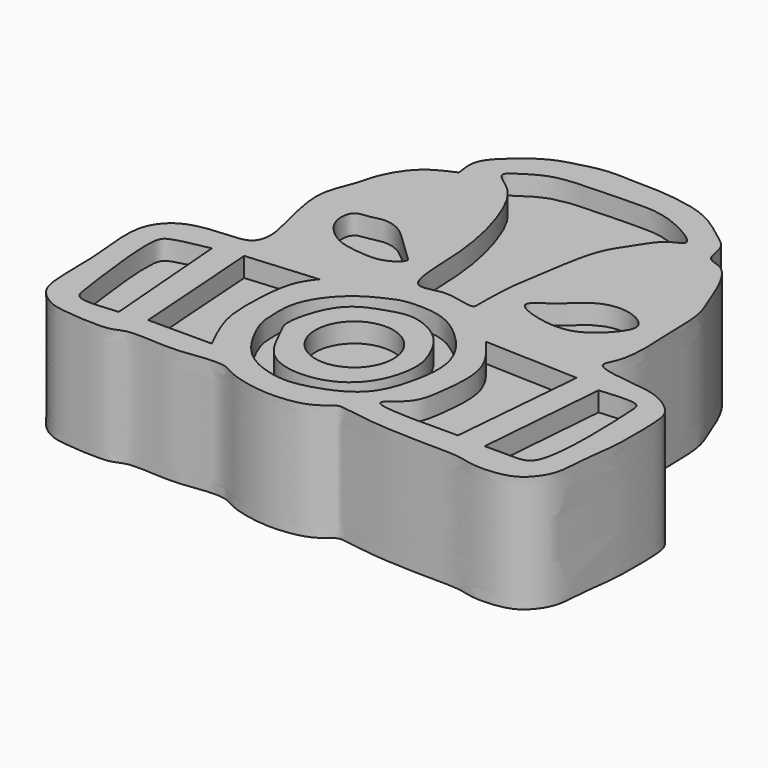
from build123d import *

# Parameters (mm, degrees)
F0_R     = 4.0049183009
F1_DEPTH = 10
F2_DEPTH = 12


with BuildPart() as f1:
    # F0 (on Top) → F1 (new body)
    with BuildSketch(Plane.XY):
        with Locations((28.8894893101, 18.9235352306)):
            Circle(F0_R)
    extrude(amount=F1_DEPTH)


with BuildPart() as f1b:
    # F0 (on Top) → F1, piece 2 (new body)
    with BuildSketch(Plane.XY):
        with BuildLine():
            add(Edge.make_bspline(
                [(20.8026859909, 16.9882196933), (20.6035718226, 17.6207572105), (20.5794979241, 18.4840377691), (20.3575789781, 21.8709034747), (23.144450364, 25.4916466908), (26.0156291835, 26.8448795352), (27.3980399055, 27.4517257238), (30.9713423124, 27.4624267076), (33.5654488721, 25.9090342878), (36.0937248749, 23.288237427), (37.0731807168, 20.2982965996), (36.5681032879, 16.8125660225), (35.1878245541, 12.4423867158), (30.0344510982, 10.6358131148), (27.4616135185, 10.5157372975), (23.0806656691, 11.8518584175), (21.1685944091, 15.8258172169), (20.8026859909, 16.9882196933)],
                knots=[0, 0, 0, 0, 0.0455058121, 0.1095799179, 0.1869409595, 0.250369325, 0.2949950733, 0.3614110684, 0.4253196437, 0.4937373292, 0.5568476491, 0.6245977666, 0.7005841649, 0.7819469744, 0.8408300813, 0.9163748122, 1, 1, 1, 1], degree=3))
        make_face()
        with BuildLine():
            add(Edge.make_bspline(
                [(23.2952721417, 22.2107823938), (23.7769020396, 23.1724826284), (24.9174060231, 24.363977316), (27.3520128584, 25.2047187757), (29.7293339921, 25.903054945), (33.1877719613, 24.2454809105), (34.6327309116, 21.5254340774), (35.4120031108, 19.2629238939), (34.7184452744, 15.6187500999), (32.3911856956, 12.8700520948), (28.6403074104, 11.8967123414), (24.5641158116, 12.9769320862), (23.0225031456, 16.9481831505), (22.001138069, 18.2925802515), (22.7143341666, 21.0507875736), (23.2952721417, 22.2107823938)],
                knots=[0, 0, 0, 0, 0.0720681105, 0.1407906987, 0.2088571516, 0.2917126596, 0.3677518005, 0.4348404499, 0.5172072425, 0.5988121841, 0.683149842, 0.769957715, 0.856584505, 0.9130720449, 1, 1, 1, 1], degree=3))
        make_face(mode=Mode.SUBTRACT)
    extrude(amount=F1_DEPTH)


with BuildPart() as f1c:
    # F0 (on Top) → F1, piece 3 (new body)
    with BuildSketch(Plane.XY):
        with BuildLine():
            add(Edge.make_bspline(
                [(45.2537797391, 11.7656551301), (45.6494291623, 16.3551811129), (46.0450785855, 20.9447070956), (46.4407280087, 25.5342330784)],
                knots=[0, 0, 0, 0, 13.8196448909, 13.8196448909, 13.8196448909, 13.8196448909], degree=3))
            add(Edge.make_bspline(
                [(46.4407280087, 25.5342330784), (43.2359725237, 25.652927657), (40.0312170386, 25.7716222356), (36.8264615536, 25.8903168142)],
                knots=[0, 0, 0, 0, 9.6208583348, 9.6208583348, 9.6208583348, 9.6208583348], degree=3))
            add(Edge.make_bspline(
                [(36.8264615536, 25.8903168142), (37.1604552953, 25.494936706), (37.957298328, 24.5516379396), (39.9568912281, 21.786537185), (39.4803852053, 16.9849641596), (38.9753058859, 13.8813847741), (34.8209130815, 11.6606950068), (41.0943311488, 11.7238088906), (45.2537797391, 11.7656551301)],
                knots=[0, 0, 0, 0, 0.1132509584, 0.2701943956, 0.4601858998, 0.6177575485, 0.7465627495, 1, 1, 1, 1], degree=3))
        make_face()
    extrude(amount=F1_DEPTH)


with BuildPart() as f1d:
    # F0 (on Top) → F1, piece 4 (new body)
    with BuildSketch(Plane.XY):
        with BuildLine():
            add(Edge.make_bspline(
                [(48.1024496257, 11.6469617933), (49.2447932451, 11.6260351986), (51.2699284324, 11.5889367438), (53.9784444263, 11.9160335461), (53.4675595097, 23.4833797746), (53.3265951762, 25.3129529029), (50.7516614767, 25.0823466557), (49.1707026958, 24.9407589436)],
                knots=[0, 0, 0, 0, 0.1854358793, 0.3287388469, 0.6711996101, 0.7981230104, 1, 1, 1, 1], degree=3))
            add(Edge.make_bspline(
                [(49.1707026958, 24.9407589436), (48.8146183391, 20.5094932268), (48.4585339824, 16.0782275101), (48.1024496257, 11.6469617933)],
                knots=[0, 0, 0, 0, 13.3366490279, 13.3366490279, 13.3366490279, 13.3366490279], degree=3))
        make_face()
    extrude(amount=F1_DEPTH)


with BuildPart() as f1e:
    # F0 (on Top) → F1, piece 5 (new body)
    with BuildSketch(Plane.XY):
        with BuildLine():
            add(Edge.make_bspline(
                [(9.5266960561, 24.8220656067), (9.8827794815, 20.3907992691), (10.2388629069, 15.9595329314), (10.5949463323, 11.5282665938)],
                knots=[0, 0, 0, 0, 13.3366506608, 13.3366506608, 13.3366506608, 13.3366506608], degree=3))
            add(Edge.make_bspline(
                [(10.5949463323, 11.5282665938), (8.9929018328, 11.3615784134), (6.2699289583, 11.0782608189), (5.9735233223, 13.3120594037), (4.5683987651, 23.0915344288), (5.9027622941, 24.1298075136), (8.1373489763, 24.5566670583), (9.5266960561, 24.8220656067)],
                knots=[0, 0, 0, 0, 0.2073275755, 0.352391812, 0.6778165336, 0.7996834664, 1, 1, 1, 1], degree=3))
        make_face()
    extrude(amount=F1_DEPTH)


with BuildPart() as f1f:
    # F0 (on Top) → F1, piece 6 (new body)
    with BuildSketch(Plane.XY):
        with BuildLine():
            add(Edge.make_bspline(
                [(19.615739584, 26.0090120137), (19.1743553077, 25.4374342486), (18.1369795872, 24.0940676458), (17.8238545293, 19.7871219215), (17.8645285467, 15.9348256176), (19.1762101672, 13.2631293848), (19.8531281203, 11.8843503296)],
                knots=[0, 0, 0, 0, 0.1981795194, 0.4657769493, 0.7243041541, 1, 1, 1, 1], degree=3))
            add(Edge.make_bspline(
                [(19.615739584, 26.0090120137), (17.202282014, 25.8111873021), (14.788824444, 25.6133625905), (12.375366874, 25.4155378789)],
                knots=[0, 0, 0, 0, 7.2646547425, 7.2646547425, 7.2646547425, 7.2646547425], degree=3))
            add(Edge.make_bspline(
                [(12.375366874, 25.4155378789), (12.6918858538, 20.9051420291), (13.0084048336, 16.3947461794), (13.3249238133, 11.8843503296)],
                knots=[0, 0, 0, 0, 13.5644644153, 13.5644644153, 13.5644644153, 13.5644644153], degree=3))
            add(Edge.make_bspline(
                [(13.3249238133, 11.8843503296), (15.5009919157, 11.8843503296), (17.677060018, 11.8843503296), (19.8531281203, 11.8843503296)],
                knots=[0, 0, 0, 0, 6.528204307, 6.528204307, 6.528204307, 6.528204307], degree=3))
        make_face()
    extrude(amount=F1_DEPTH)


with BuildPart() as f1g:
    # F0 (on Top) → F1, piece 7 (new body)
    with BuildSketch(Plane.XY):
        with BuildLine():
            add(Edge.make_bspline(
                [(16.0549003631, 37.0476134121), (16.4884641357, 37.1155053542), (17.2301345059, 37.4378671255), (19.2345113117, 36.9786346853), (21.0491013175, 34.9278189442), (22.7711921329, 33.4522305308), (23.31106835, 32.8422584646), (21.5575576201, 31.4626686908), (19.0158191509, 31.6850866211), (16.8498697482, 31.9930949296), (14.9963802329, 33.3893072715), (14.0938310397, 35.0207665675), (14.3529331499, 37.0093700836), (15.5774066167, 36.9728424562), (16.0549003631, 37.0476134121)],
                knots=[0, 0, 0, 0, 0.0681988353, 0.1523427714, 0.257146282, 0.350491444, 0.3956537254, 0.4783649686, 0.5785848973, 0.6702889193, 0.7623948645, 0.8468858322, 0.9248910555, 1, 1, 1, 1], degree=3))
        make_face()
    extrude(amount=F1_DEPTH)


with BuildPart() as f1h:
    # F0 (on Top) → F1, piece 8 (new body)
    with BuildSketch(Plane.XY):
        with BuildLine():
            add(Edge.make_bspline(
                [(26.3813324273, 30.2820187062), (25.4859453022, 30.9513633468), (25.8291215448, 37.1745323154), (23.9579104474, 44.1702097332), (21.8980142694, 47.843267803), (19.0784716418, 49.3283212928), (20.8548950521, 50.4407506209), (22.9171432088, 51.8059489017), (26.6724199197, 52.0343047816), (30.9972551486, 52.1159297862), (34.6906778445, 52.2324643997), (39.7384521014, 49.2918593921), (37.029650121, 48.7303175675), (35.6673806982, 46.2044505465), (34.1253728513, 44.2524132122), (33.3372376374, 40.6175425623), (32.8033652961, 36.8616609028), (32.3581020407, 34.5444001911), (32.3036636797, 30.6371074615), (32.3302387886, 29.8789782433), (30.7152354507, 30.1773001052), (28.7344223005, 30.6996199218), (26.9147953928, 29.8832296607), (26.3813324273, 30.2820187062)],
                knots=[0, 0, 0, 0, 0.0691059691, 0.1462001704, 0.2024486215, 0.2437063164, 0.2754556027, 0.3191934086, 0.3719656354, 0.4286113038, 0.4846353718, 0.5408838019, 0.5738620882, 0.6203035782, 0.6636568488, 0.716252628, 0.7691459538, 0.8136237817, 0.8670325605, 0.8861991209, 0.917569646, 0.9588273338, 1, 1, 1, 1], degree=3))
        make_face()
    extrude(amount=F1_DEPTH)


with BuildPart() as f1i:
    # F0 (on Top) → F1, piece 9 (new body)
    with BuildSketch(Plane.XY):
        with BuildLine():
            add(Edge.make_bspline(
                [(35.2834314108, 32.8933000565), (35.1707286419, 33.3685819518), (36.9643517037, 34.3521944467), (38.2964667749, 35.7540983222), (40.1913718158, 37.1883318487), (42.9882169971, 37.2482707702), (45.0468947594, 35.7401102985), (44.3369434678, 34.1906052775), (42.6413767424, 32.312057447), (39.8174204853, 30.9001064425), (35.4498444289, 32.1915152164), (35.2834314108, 32.8933000565)],
                knots=[0, 0, 0, 0, 0.1002400862, 0.204727296, 0.3104226346, 0.4271190388, 0.5297925519, 0.6119560896, 0.7221770092, 0.851988949, 1, 1, 1, 1], degree=3))
        make_face()
    extrude(amount=F1_DEPTH)


with BuildPart() as f2:
    # F0 (on Top) → F2 (new body)
    with BuildSketch(Plane.XY):
        with BuildLine():
            add(Edge.make_bspline(
                [(28.2804463059, 55.0891980529), (29.5327954611, 55.0800693275), (31.9166224468, 55.0626929418), (34.9600043045, 54.5587683253), (37.4440511034, 53.7459931353), (40.2524360298, 51.5276593389), (41.5429719982, 50.5631624266), (41.578509699, 47.9958100822), (43.9974751921, 48.1346184793), (45.9236637264, 43.8697631347), (46.3933992905, 42.4239436048), (47.4071689866, 40.19788218), (47.3148469586, 36.1593638907), (47.6376543944, 32.778885958), (47.2484705343, 29.896118044), (46.2332505524, 28.442193387), (48.5231682717, 27.7587304811), (51.9208314624, 27.5489947915), (54.018539225, 26.8807480294), (55.9756851348, 25.3587585181), (56.2344737501, 23.2530257895), (56.3056740642, 18.161058182), (55.7371852982, 15.3809845813), (55.6773275011, 11.8448336007), (54.689042036, 10.1770951548), (53.1327199724, 8.5791605544), (49.2891957929, 8.3919221315), (47.6915175174, 9.0804897421), (43.8229305636, 8.9831194373), (40.5981963155, 9.1637235535), (38.9629923419, 9.2170315869), (35.4108708261, 9.7233376743), (34.4021572518, 9.9470895033), (32.9617825871, 8.3517637862), (29.7596127006, 7.8663262644), (27.4127178081, 7.9991624371), (24.5222680764, 8.6534383794), (23.1609193025, 9.7462305216), (20.5226980895, 9.5370289), (18.5226483752, 9.217231814), (16.4849833944, 9.2361365542), (13.0549654702, 9.514955598), (11.9418124097, 8.4951182097), (7.156961425, 8.8751725177), (5.4173485535, 9.212221863), (3.3634886372, 10.7442996442), (3.0385509706, 13.4409394615), (3.0777022996, 17.882631279), (2.7329450785, 20.3138514156), (2.5393391558, 23.6658228194), (3.4715679679, 25.6283859359), (5.3075815368, 27.1261216277), (8.8456472722, 27.462012988), (11.4022635052, 27.5400249612), (11.9619954498, 29.52374359), (11.4099576215, 31.7757436991), (10.8094692323, 34.1929844932), (10.0656749581, 37.8998059044), (11.5611141891, 40.8257064206), (11.8505911943, 42.8891675396), (13.7128467198, 46.1724581184), (15.7602601057, 47.0575153117), (16.7670678347, 47.4927388132)],
                knots=[0, 0, 0, 0, 0.0197539844, 0.0376013997, 0.0544158983, 0.0736518995, 0.0866620061, 0.1011843669, 0.1152174299, 0.1366053571, 0.149843024, 0.1652933062, 0.1859935477, 0.2054266536, 0.2229227516, 0.2343836224, 0.2482267086, 0.2677401858, 0.2831904801, 0.2984215473, 0.3132445384, 0.3362317089, 0.3543778229, 0.3732004013, 0.3872334643, 0.4022001531, 0.4216762527, 0.4355490658, 0.4556188097, 0.4740558681, 0.4878085733, 0.5069999524, 0.5170323612, 0.5311364766, 0.5494588197, 0.5657224076, 0.5830155125, 0.5964369607, 0.6126913479, 0.6273663381, 0.6424149709, 0.6608457093, 0.6734608214, 0.6953297655, 0.7097344293, 0.7249655065, 0.7418132, 0.7633926816, 0.7800638408, 0.798494582, 0.8133175714, 0.8286154028, 0.84817664, 0.8638061832, 0.8770438447, 0.892600316, 0.9090803251, 0.9288752553, 0.9470477957, 0.9619789411, 0.9813032892, 1, 1, 1, 1], degree=3))
            add(Edge.make_bspline(
                [(16.7670678347, 47.4927388132), (16.6368678814, 48.313772467), (16.3657426089, 50.0234733336), (18.5644150741, 52.0679657644), (20.9203959077, 53.9547705592), (23.5252213578, 54.6038655503), (25.7718843223, 55.2127332469), (27.433405187, 55.1309109504), (28.2804463059, 55.0891980529)],
                knots=[0, 0, 0, 0, 0.1592266804, 0.3315698355, 0.5124409928, 0.6799545311, 0.8368412472, 1, 1, 1, 1], degree=3))
        make_face()
        with BuildLine():
            add(Edge.make_bspline(
                [(10.5949463323, 11.5282665938), (8.9929018328, 11.3615784134), (6.2699289583, 11.0782608189), (5.9735233223, 13.3120594037), (4.5683987651, 23.0915344288), (5.9027622941, 24.1298075136), (8.1373489763, 24.5566670583), (9.5266960561, 24.8220656067)],
                knots=[0, 0, 0, 0, 0.2073275755, 0.352391812, 0.6778165336, 0.7996834664, 1, 1, 1, 1], degree=3))
            add(Edge.make_bspline(
                [(9.5266960561, 24.8220656067), (9.8827794815, 20.3907992691), (10.2388629069, 15.9595329314), (10.5949463323, 11.5282665938)],
                knots=[0, 0, 0, 0, 13.3366506608, 13.3366506608, 13.3366506608, 13.3366506608], degree=3))
        make_face(mode=Mode.SUBTRACT)
        with BuildLine():
            add(Edge.make_bspline(
                [(19.615739584, 26.0090120137), (17.202282014, 25.8111873021), (14.788824444, 25.6133625905), (12.375366874, 25.4155378789)],
                knots=[0, 0, 0, 0, 7.2646547425, 7.2646547425, 7.2646547425, 7.2646547425], degree=3))
            add(Edge.make_bspline(
                [(19.615739584, 26.0090120137), (19.1743553077, 25.4374342486), (18.1369795872, 24.0940676458), (17.8238545293, 19.7871219215), (17.8645285467, 15.9348256176), (19.1762101672, 13.2631293848), (19.8531281203, 11.8843503296)],
                knots=[0, 0, 0, 0, 0.1981795194, 0.4657769493, 0.7243041541, 1, 1, 1, 1], degree=3))
            add(Edge.make_bspline(
                [(13.3249238133, 11.8843503296), (15.5009919157, 11.8843503296), (17.677060018, 11.8843503296), (19.8531281203, 11.8843503296)],
                knots=[0, 0, 0, 0, 6.528204307, 6.528204307, 6.528204307, 6.528204307], degree=3))
            add(Edge.make_bspline(
                [(12.375366874, 25.4155378789), (12.6918858538, 20.9051420291), (13.0084048336, 16.3947461794), (13.3249238133, 11.8843503296)],
                knots=[0, 0, 0, 0, 13.5644644153, 13.5644644153, 13.5644644153, 13.5644644153], degree=3))
        make_face(mode=Mode.SUBTRACT)
        with BuildLine():
            add(Edge.make_bspline(
                [(20.8026859909, 16.9882196933), (20.6035718226, 17.6207572105), (20.5794979241, 18.4840377691), (20.3575789781, 21.8709034747), (23.144450364, 25.4916466908), (26.0156291835, 26.8448795352), (27.3980399055, 27.4517257238), (30.9713423124, 27.4624267076), (33.5654488721, 25.9090342878), (36.0937248749, 23.288237427), (37.0731807168, 20.2982965996), (36.5681032879, 16.8125660225), (35.1878245541, 12.4423867158), (30.0344510982, 10.6358131148), (27.4616135185, 10.5157372975), (23.0806656691, 11.8518584175), (21.1685944091, 15.8258172169), (20.8026859909, 16.9882196933)],
                knots=[0, 0, 0, 0, 0.0455058121, 0.1095799179, 0.1869409595, 0.250369325, 0.2949950733, 0.3614110684, 0.4253196437, 0.4937373292, 0.5568476491, 0.6245977666, 0.7005841649, 0.7819469744, 0.8408300813, 0.9163748122, 1, 1, 1, 1], degree=3))
        make_face(mode=Mode.SUBTRACT)
        with BuildLine():
            add(Edge.make_bspline(
                [(46.4407280087, 25.5342330784), (43.2359725237, 25.652927657), (40.0312170386, 25.7716222356), (36.8264615536, 25.8903168142)],
                knots=[0, 0, 0, 0, 9.6208583348, 9.6208583348, 9.6208583348, 9.6208583348], degree=3))
            add(Edge.make_bspline(
                [(45.2537797391, 11.7656551301), (45.6494291623, 16.3551811129), (46.0450785855, 20.9447070956), (46.4407280087, 25.5342330784)],
                knots=[0, 0, 0, 0, 13.8196448909, 13.8196448909, 13.8196448909, 13.8196448909], degree=3))
            add(Edge.make_bspline(
                [(36.8264615536, 25.8903168142), (37.1604552953, 25.494936706), (37.957298328, 24.5516379396), (39.9568912281, 21.786537185), (39.4803852053, 16.9849641596), (38.9753058859, 13.8813847741), (34.8209130815, 11.6606950068), (41.0943311488, 11.7238088906), (45.2537797391, 11.7656551301)],
                knots=[0, 0, 0, 0, 0.1132509584, 0.2701943956, 0.4601858998, 0.6177575485, 0.7465627495, 1, 1, 1, 1], degree=3))
        make_face(mode=Mode.SUBTRACT)
        with BuildLine():
            add(Edge.make_bspline(
                [(49.1707026958, 24.9407589436), (48.8146183391, 20.5094932268), (48.4585339824, 16.0782275101), (48.1024496257, 11.6469617933)],
                knots=[0, 0, 0, 0, 13.3366490279, 13.3366490279, 13.3366490279, 13.3366490279], degree=3))
            add(Edge.make_bspline(
                [(48.1024496257, 11.6469617933), (49.2447932451, 11.6260351986), (51.2699284324, 11.5889367438), (53.9784444263, 11.9160335461), (53.4675595097, 23.4833797746), (53.3265951762, 25.3129529029), (50.7516614767, 25.0823466557), (49.1707026958, 24.9407589436)],
                knots=[0, 0, 0, 0, 0.1854358793, 0.3287388469, 0.6711996101, 0.7981230104, 1, 1, 1, 1], degree=3))
        make_face(mode=Mode.SUBTRACT)
        with BuildLine():
            add(Edge.make_bspline(
                [(16.0549003631, 37.0476134121), (16.4884641357, 37.1155053542), (17.2301345059, 37.4378671255), (19.2345113117, 36.9786346853), (21.0491013175, 34.9278189442), (22.7711921329, 33.4522305308), (23.31106835, 32.8422584646), (21.5575576201, 31.4626686908), (19.0158191509, 31.6850866211), (16.8498697482, 31.9930949296), (14.9963802329, 33.3893072715), (14.0938310397, 35.0207665675), (14.3529331499, 37.0093700836), (15.5774066167, 36.9728424562), (16.0549003631, 37.0476134121)],
                knots=[0, 0, 0, 0, 0.0681988353, 0.1523427714, 0.257146282, 0.350491444, 0.3956537254, 0.4783649686, 0.5785848973, 0.6702889193, 0.7623948645, 0.8468858322, 0.9248910555, 1, 1, 1, 1], degree=3))
        make_face(mode=Mode.SUBTRACT)
        with BuildLine():
            add(Edge.make_bspline(
                [(26.3813324273, 30.2820187062), (25.4859453022, 30.9513633468), (25.8291215448, 37.1745323154), (23.9579104474, 44.1702097332), (21.8980142694, 47.843267803), (19.0784716418, 49.3283212928), (20.8548950521, 50.4407506209), (22.9171432088, 51.8059489017), (26.6724199197, 52.0343047816), (30.9972551486, 52.1159297862), (34.6906778445, 52.2324643997), (39.7384521014, 49.2918593921), (37.029650121, 48.7303175675), (35.6673806982, 46.2044505465), (34.1253728513, 44.2524132122), (33.3372376374, 40.6175425623), (32.8033652961, 36.8616609028), (32.3581020407, 34.5444001911), (32.3036636797, 30.6371074615), (32.3302387886, 29.8789782433), (30.7152354507, 30.1773001052), (28.7344223005, 30.6996199218), (26.9147953928, 29.8832296607), (26.3813324273, 30.2820187062)],
                knots=[0, 0, 0, 0, 0.0691059691, 0.1462001704, 0.2024486215, 0.2437063164, 0.2754556027, 0.3191934086, 0.3719656354, 0.4286113038, 0.4846353718, 0.5408838019, 0.5738620882, 0.6203035782, 0.6636568488, 0.716252628, 0.7691459538, 0.8136237817, 0.8670325605, 0.8861991209, 0.917569646, 0.9588273338, 1, 1, 1, 1], degree=3))
        make_face(mode=Mode.SUBTRACT)
        with BuildLine():
            add(Edge.make_bspline(
                [(35.2834314108, 32.8933000565), (35.1707286419, 33.3685819518), (36.9643517037, 34.3521944467), (38.2964667749, 35.7540983222), (40.1913718158, 37.1883318487), (42.9882169971, 37.2482707702), (45.0468947594, 35.7401102985), (44.3369434678, 34.1906052775), (42.6413767424, 32.312057447), (39.8174204853, 30.9001064425), (35.4498444289, 32.1915152164), (35.2834314108, 32.8933000565)],
                knots=[0, 0, 0, 0, 0.1002400862, 0.204727296, 0.3104226346, 0.4271190388, 0.5297925519, 0.6119560896, 0.7221770092, 0.851988949, 1, 1, 1, 1], degree=3))
        make_face(mode=Mode.SUBTRACT)
    extrude(amount=F2_DEPTH)


with BuildPart() as f2b:
    # F0 (on Top) → F2, piece 2 (new body)
    with BuildSketch(Plane.XY):
        with BuildLine():
            add(Edge.make_bspline(
                [(23.2952721417, 22.2107823938), (23.7769020396, 23.1724826284), (24.9174060231, 24.363977316), (27.3520128584, 25.2047187757), (29.7293339921, 25.903054945), (33.1877719613, 24.2454809105), (34.6327309116, 21.5254340774), (35.4120031108, 19.2629238939), (34.7184452744, 15.6187500999), (32.3911856956, 12.8700520948), (28.6403074104, 11.8967123414), (24.5641158116, 12.9769320862), (23.0225031456, 16.9481831505), (22.001138069, 18.2925802515), (22.7143341666, 21.0507875736), (23.2952721417, 22.2107823938)],
                knots=[0, 0, 0, 0, 0.0720681105, 0.1407906987, 0.2088571516, 0.2917126596, 0.3677518005, 0.4348404499, 0.5172072425, 0.5988121841, 0.683149842, 0.769957715, 0.856584505, 0.9130720449, 1, 1, 1, 1], degree=3))
        make_face()
        with Locations((28.8894893101, 18.9235352306)):
            Circle(F0_R, mode=Mode.SUBTRACT)
    extrude(amount=F2_DEPTH)


solid = Compound([f1.part, f1b.part, f1c.part, f1d.part, f1e.part, f1f.part, f1g.part, f1h.part, f1i.part, f2.part, f2b.part])
